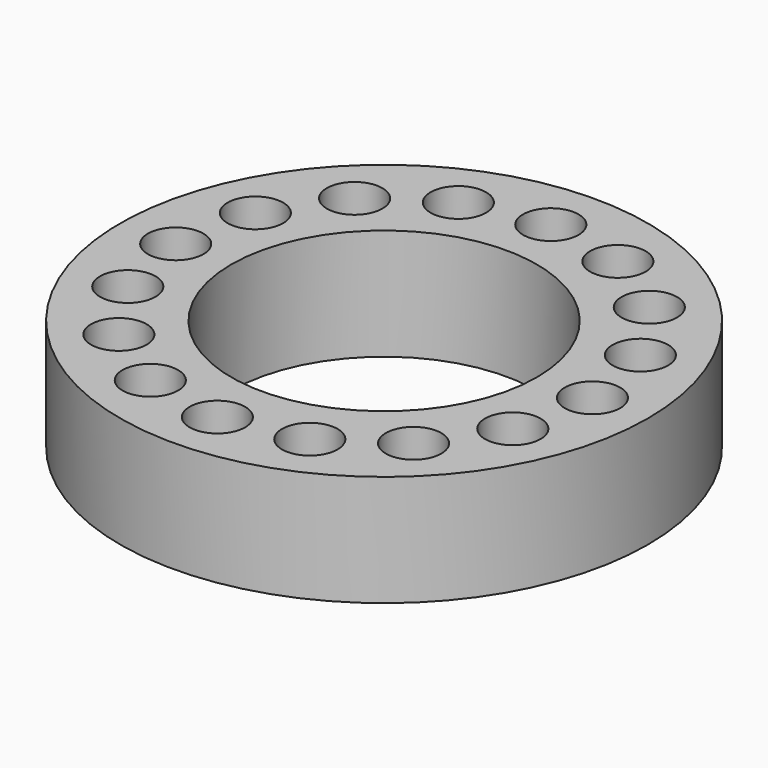
from build123d import *

# Parameters (mm, degrees)
F0_R     = 23.75
F0_R_2   = 2.5
F0_R_3   = 13.75
F1_DEPTH = 10


with BuildPart() as f1:
    # F0 (on Top) → F1 (new body)
    with BuildSketch(Plane.XY):
        Circle(F0_R)
        with Locations((-13.258252, -13.258252)):
            Circle(F0_R_2, mode=Mode.SUBTRACT)
        with Locations((-7.175314, -17.322741)):
            Circle(F0_R_2, mode=Mode.SUBTRACT)
        with Locations((-17.322741, -7.175314)):
            Circle(F0_R_2, mode=Mode.SUBTRACT)
        with Locations((0, -18.75)):
            Circle(F0_R_2, mode=Mode.SUBTRACT)
        with Locations((7.175314, -17.322741)):
            Circle(F0_R_2, mode=Mode.SUBTRACT)
        with Locations((13.258252, -13.258252)):
            Circle(F0_R_2, mode=Mode.SUBTRACT)
        with Locations((17.322741, -7.175314)):
            Circle(F0_R_2, mode=Mode.SUBTRACT)
        with Locations((-18.75, 0)):
            Circle(F0_R_2, mode=Mode.SUBTRACT)
        with Locations((-17.322741, 7.175314)):
            Circle(F0_R_2, mode=Mode.SUBTRACT)
        with Locations((-13.258252, 13.258252)):
            Circle(F0_R_2, mode=Mode.SUBTRACT)
        with Locations((-7.175314, 17.322741)):
            Circle(F0_R_2, mode=Mode.SUBTRACT)
        Circle(F0_R_3, mode=Mode.SUBTRACT)
        with Locations((18.75, 0)):
            Circle(F0_R_2, mode=Mode.SUBTRACT)
        with Locations((17.322741, 7.175314)):
            Circle(F0_R_2, mode=Mode.SUBTRACT)
        with Locations((7.175314, 17.322741)):
            Circle(F0_R_2, mode=Mode.SUBTRACT)
        with Locations((0, 18.75)):
            Circle(F0_R_2, mode=Mode.SUBTRACT)
        with Locations((13.258252, 13.258252)):
            Circle(F0_R_2, mode=Mode.SUBTRACT)
    extrude(amount=F1_DEPTH)


solid = f1.part
